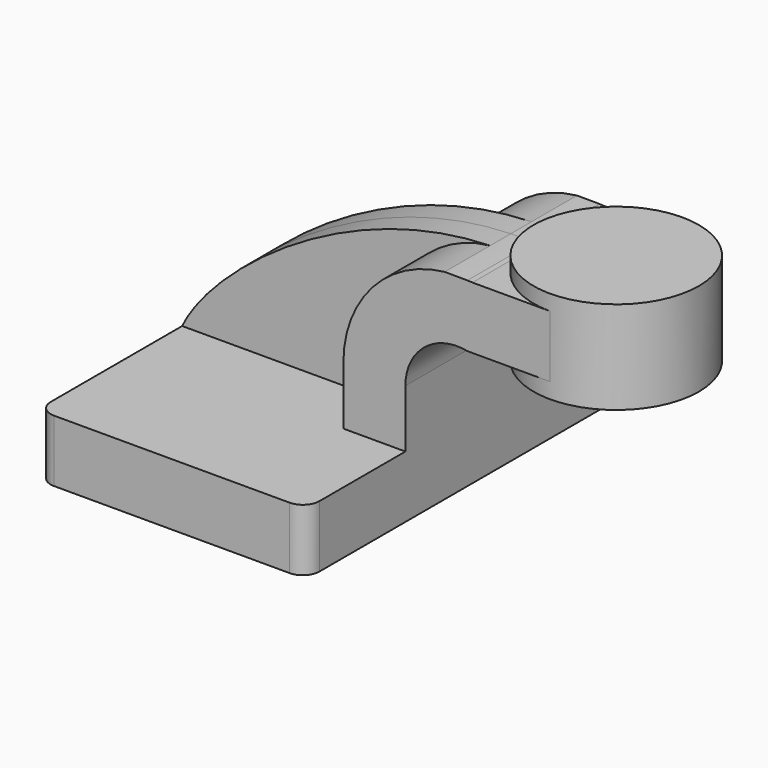
from build123d import *

# Parameters (mm, degrees)
F1_DEPTH = 63.5
F2_DEPTH = 25.4
F3_DEPTH = 25.4
F4_DEPTH = 7.9375
F6_R     = 5.08
F7_R     = 5.08


with BuildPart() as f1:
    # F0 (on Front) → F1 (new body, symmetric)
    with BuildSketch(Plane.XZ):
        Polygon((-41.275, 9.525), (-41.275, -9.525), (41.275, -9.525), (41.275, 9.525), (22.225, 9.525), align=None)
    extrude(amount=F1_DEPTH, both=True)

    # F0 (on Front) → F2 (join, symmetric)
    with BuildSketch(Plane.XZ):
        with BuildLine():
            Line((22.225, 9.525), (41.275, 9.525))
            Line((41.275, 9.525), (41.275, 27.32094))
            ThreePointArc((41.275, 27.32094), (47.109768, 39.617662), (60.325, 42.8752))
            Line((60.325, 42.8752), (60.325, 62.001544))
            add(Edge.make_bspline(
                [(60.325, 62.001544), (57.988427, 62.097884), (55.662261, 62.10827), (53.349908, 62.038586)],
                knots=[1.216171, 1.216171, 1.216171, 1.216171, 6.730793, 6.730793, 6.730793, 6.730793], degree=3))
            ThreePointArc((53.349908, 62.038586), (31.145444, 50.634428), (22.225, 27.32094))
            Line((22.225, 27.32094), (22.225, 9.525))
        make_face()
    extrude(amount=F2_DEPTH, both=True)

    # F0 (on Front) → F3 (join, symmetric)
    with BuildSketch(Plane.XZ):
        with BuildLine():
            add(Edge.make_bspline(
                [(61.872375, 61.9252), (61.356101, 61.954871), (60.840298, 61.980297), (60.325, 62.001544)],
                knots=[0, 0, 0, 0, 1.216171, 1.216171, 1.216171, 1.216171], degree=3))
            Line((60.325, 62.001544), (60.325, 42.8752))
            Line((60.325, 42.8752), (85.725, 42.8752))
            Line((85.725, 42.8752), (85.725, 61.9252))
            Line((85.725, 61.9252), (61.872375, 61.9252))
        make_face()
    extrude(amount=F3_DEPTH, both=True)

    # F0 (on Front) → F4 (join, symmetric)
    with BuildSketch(Plane.XZ):
        with BuildLine():
            add(Edge.make_bspline(
                [(53.349908, 62.038586), (7.6601, 60.6617), (-32.637096, 28.024181), (-41.275, 9.525)],
                knots=[6.730793, 6.730793, 6.730793, 6.730793, 115.69426, 115.69426, 115.69426, 115.69426], degree=3))
            Line((-41.275, 9.525), (22.225, 9.525))
            Line((22.225, 9.525), (22.225, 27.32094))
            ThreePointArc((22.225, 27.32094), (31.145444, 50.634428), (53.349908, 62.038586))
        make_face()
    extrude(amount=F4_DEPTH, both=True)

    # F0 (on Front) → F5 (revolve)
    with BuildSketch(Plane.XZ):
        Polygon((85.725, 61.9252), (85.725, 42.8752), (85.725, 38.1), (111.125, 38.1), (111.125, 66.675), (85.725, 66.675), align=None)
    revolve(axis=Axis((85.725, 0, 52.3875), (0, 0, 1)))

    # F6
    f6_edges = [f1.edges().sort_by_distance(p)[0] for p in [
        (-41.275, 63.5, 0),
        (41.275, 63.5, 0),
        (-41.275, -63.5, 0),
    ]]
    fillet(f6_edges, radius=F6_R)

    # F7
    f7_edges = [f1.edges().sort_by_distance(p)[0] for p in [
        (41.275, -63.5, 0),
    ]]
    fillet(f7_edges, radius=F7_R)


solid = f1.part
